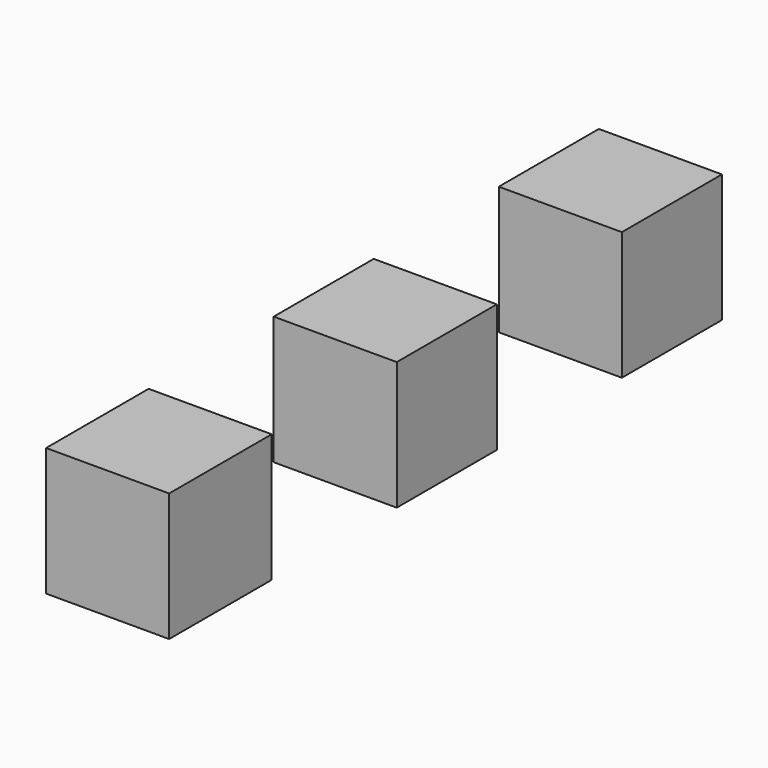
from build123d import *

# Parameters (mm, degrees)
F0_W     = 10.161291
F0_H     = 10.415321
F0_W_2   = 10.415324
F1_DEPTH = 10


with BuildPart() as f1:
    # F0 (on Right) → F1 (new body)
    with BuildSketch(Plane.YZ):
        with Locations((-25.784274, 34.294356)):
            Rectangle(F0_W, F0_H)
        with Locations((-2.92137, 34.294356)):
            Rectangle(F0_W, F0_H)
        with Locations((-48.774194, 34.294356)):
            Rectangle(F0_W_2, F0_H)
    extrude(amount=F1_DEPTH)


solid = f1.part
